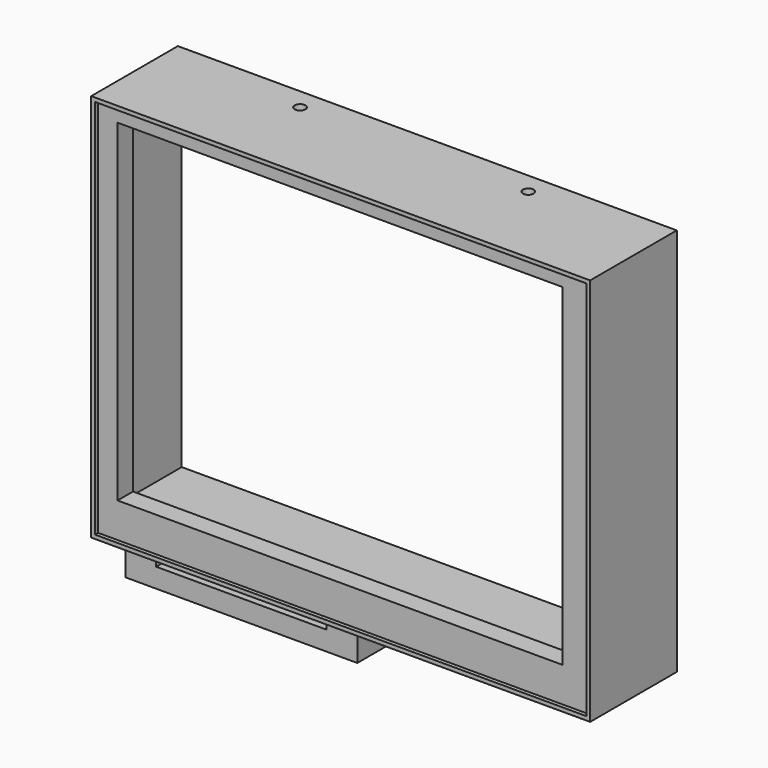
from build123d import *

# Parameters (mm, degrees)
F1_W      = 129
F1_H      = 100.5
F1_W_2    = 127
F1_H_2    = 98.5
F2_DEPTH  = 6
F3_W      = 129
F3_H      = 100.5
F3_W_2    = 127
F3_H_2    = 90.5
F4_DEPTH  = 22
F6_DEPTH  = 17
F7_R      = 1.4
F8_DEPTH  = 7.9
F9_R      = 1.4
F10_DEPTH = 5
F11_W     = 127
F11_H     = 98.5
F11_W_2   = 115
F11_H_2   = 86
F12_DEPTH = 5


with BuildPart() as f2:
    # F1 (on Front) → F2 (new body)
    with BuildSketch(Plane.XZ):
        with Locations((1, -2.75)):
            Rectangle(F1_W, F1_H)
        with Locations((1, -2.75)):
            Rectangle(F1_W_2, F1_H_2, mode=Mode.SUBTRACT)
    extrude(amount=F2_DEPTH)

    # F3 (on Front) → F4 (join)
    with BuildSketch(Plane.XZ):
        with Locations((1, -2.75)):
            Rectangle(F3_W, F3_H)
        with Locations((1, -2.75)):
            Rectangle(F3_W_2, F3_H_2, mode=Mode.SUBTRACT)
    extrude(amount=-F4_DEPTH)

    # F5 (on face) → F6 (join)
    with BuildSketch(Plane(origin=(0, 22, 0), x_dir=(-1, 0, 0), z_dir=(0, 1, 0))):
        Polygon((3.5, -66.5), (63.5, -66.5), (63.5, -53), (55.5, -53), (55.5, -61.5), (11.5, -61.5), (11.5, -53), (3.5, -53), align=None)
    extrude(amount=-F6_DEPTH)

    # F7 (on face) → F8 (cut)
    with BuildSketch(Plane.XY.offset(47.5)):
        with Locations((-27.5, 16.5)):
            Circle(F7_R)
        with Locations((31.5, 16.5)):
            Circle(F7_R)
    extrude(amount=-F8_DEPTH, mode=Mode.SUBTRACT)

    # F9 (on face) → F10 (cut)
    with BuildSketch(Plane(origin=(0, 0, -66.5), x_dir=(1, 0, 0), z_dir=(0, 0, -1))):
        with Locations((-27.5, -16.5)):
            Circle(F9_R)
    extrude(amount=-F10_DEPTH, mode=Mode.SUBTRACT)

    # F11 (on face) → F12 (join)
    with BuildSketch(Plane.XZ):
        with Locations((1, -2.75)):
            Rectangle(F11_W, F11_H)
        Rectangle(F11_W_2, F11_H_2, mode=Mode.SUBTRACT)
    extrude(amount=F12_DEPTH)


solid = f2.part
